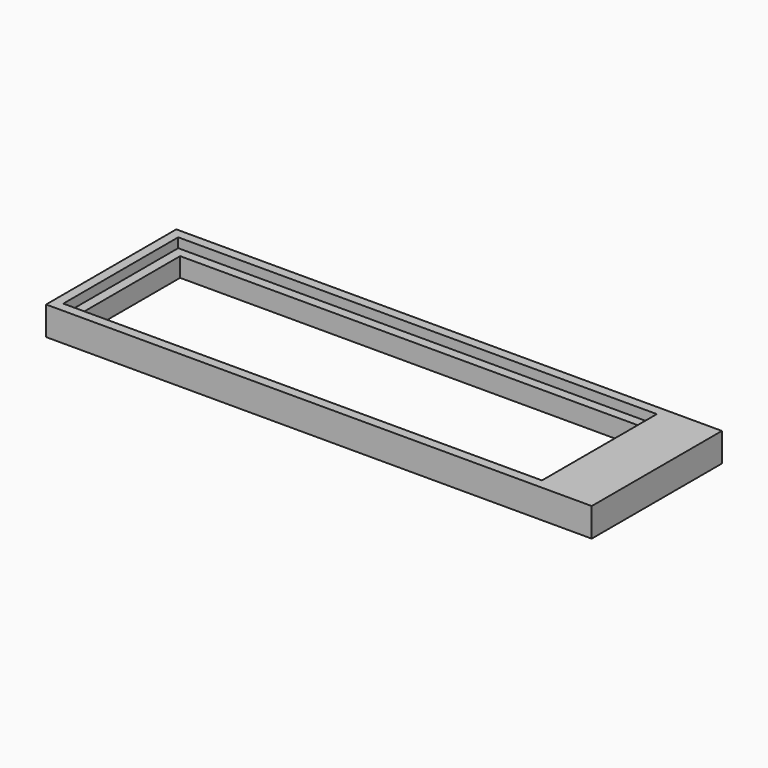
from build123d import *

# Parameters (mm, degrees)
F0_W     = 570
F0_H     = 170
F1_DEPTH = 30
F2_W     = 500
F2_H     = 150
F3_DEPTH = 10
F4_W     = 480
F4_H     = 130
F5_DEPTH = 20


with BuildPart() as f1:
    # F0 (on Top) → F1 (new body)
    with BuildSketch(Plane.XY):
        with Locations((11.190109, -17.617314)):
            Rectangle(F0_W, F0_H)
    extrude(amount=-F1_DEPTH)

    # F2 (on face) → F3 (cut)
    with BuildSketch(Plane.XY):
        with Locations((-13.809891, -17.617314)):
            Rectangle(F2_W, F2_H)
    extrude(amount=-F3_DEPTH, mode=Mode.SUBTRACT)

    # F4 (on face) → F5 (cut, through all)
    with BuildSketch(Plane.XY.offset(-10)):
        with Locations((-13.809891, -17.617314)):
            Rectangle(F4_W, F4_H)
    extrude(amount=-F5_DEPTH, mode=Mode.SUBTRACT)


solid = f1.part
